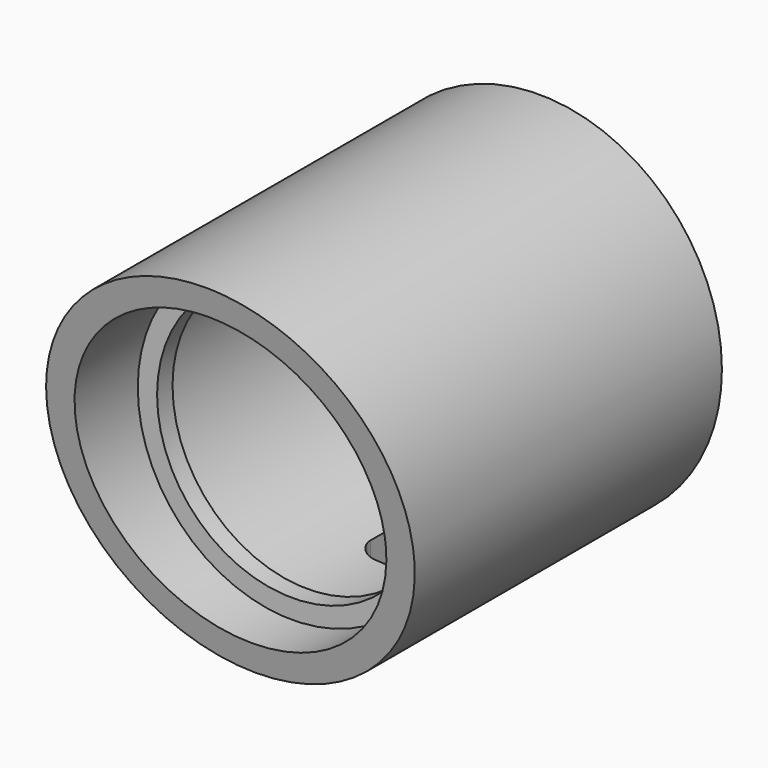
from build123d import *

# Parameters (mm, degrees)
F0_R          = 28.375
F0_R_2        = 24
F1_DEPTH      = 65
F3_DEPTH      = 35
F3_DEPTH_BACK = 35
F5_DEPTH      = 35
F7_DEPTH      = 5
F9_DEPTH      = 25
F11_R         = 24
F11_R_2       = 21
F12_DEPTH     = 3


with BuildPart() as f1:
    # F0 (on Front) → F1 (new body)
    with BuildSketch(Plane.XZ):
        Circle(F0_R)
        Circle(F0_R_2, mode=Mode.SUBTRACT)
    extrude(amount=F1_DEPTH)

    # F2 (on Right) → F3 (cut, two sides)
    with BuildSketch(Plane.YZ) as f3_sk:
        Polygon((-55, -28.75), (-65, 28.75), (-65, -28.75), align=None)
    extrude(amount=F3_DEPTH, mode=Mode.SUBTRACT)
    extrude(f3_sk.sketch, amount=-F3_DEPTH_BACK, mode=Mode.SUBTRACT)

    # F4 (on Top) → F5 (cut)
    with BuildSketch(Plane.XY):
        with BuildLine():
            Line((5.25, 0), (-5, 0))
            Line((-5, 0), (-5, -26.5))
            ThreePointArc((-5, -26.5), (-4.12132, -28.62132), (-2, -29.5))
            Line((-2, -29.5), (2.25, -29.5))
            ThreePointArc((2.25, -29.5), (4.37132, -28.62132), (5.25, -26.5))
            Line((5.25, -26.5), (5.25, 0))
        make_face()
    extrude(amount=-F5_DEPTH, mode=Mode.SUBTRACT)

    # F6 (on Front) → F7 (join)
    with BuildSketch(Plane.XZ):
        with BuildLine():
            Line((11.5, 11.5), (11.5, -25.529395))
            ThreePointArc((11.5, -25.529395), (0, 28), (-11.5, -25.529395))
            Line((-11.5, -25.529395), (-11.5, 11.5))
            ThreePointArc((-11.5, 11.5), (0, 23), (11.5, 11.5))
        make_face()
    extrude(amount=F7_DEPTH)

    # F8 (on face) → F9 (cut)
    with BuildSketch(Plane(origin=(0, 0, 0), x_dir=(-1, 0, 0), z_dir=(0, 1, 0))):
        with BuildLine():
            Line((-17, -2.75), (-10, -2.75))
            ThreePointArc((-10, -2.75), (-7.25, 0), (-10, 2.75))
            Line((-10, 2.75), (-17, 2.75))
            ThreePointArc((-17, 2.75), (-19.75, 0), (-17, -2.75))
        make_face()
        with BuildLine():
            Line((17, 2.75), (10, 2.75))
            ThreePointArc((10, 2.75), (7.25, 0), (10, -2.75))
            Line((10, -2.75), (17, -2.75))
            ThreePointArc((17, -2.75), (19.75, 0), (17, 2.75))
        make_face()
    extrude(amount=-F9_DEPTH, mode=Mode.SUBTRACT)

    # F11 (on offset) → F12 (join)
    with BuildSketch(Plane.XZ.offset(45)):
        Circle(F11_R)
        Circle(F11_R_2, mode=Mode.SUBTRACT)
    extrude(amount=F12_DEPTH)


solid = f1.part
